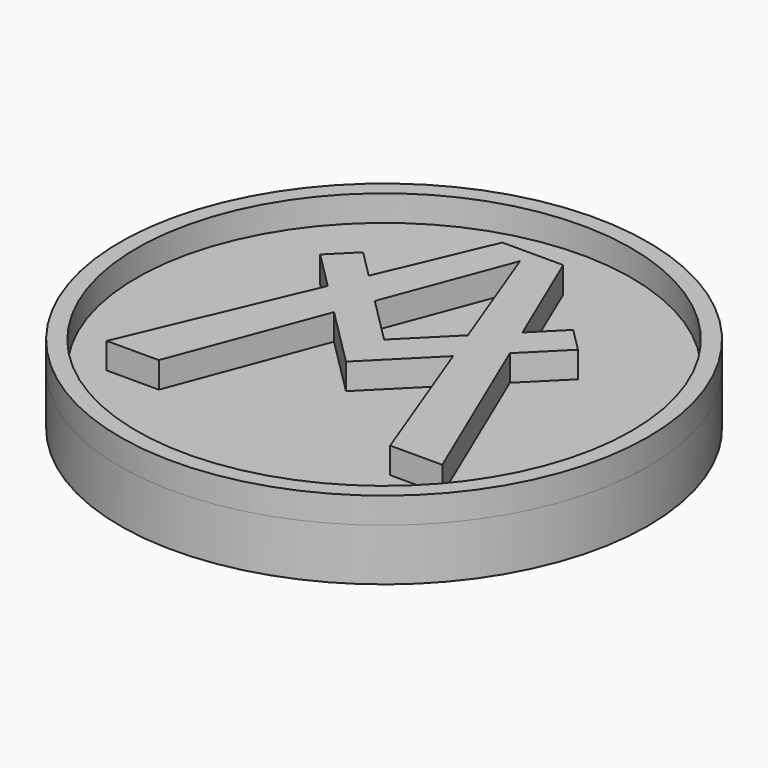
from build123d import *

# Parameters (mm, degrees)
F0_R     = 10.135287
F1_DEPTH = 2
F3_DEPTH = 1
F4_R     = 10.135287
F4_R_2   = 9.5
F5_DEPTH = 1


with BuildPart() as f1:
    # F0 (on Top) → F1 (new body)
    with BuildSketch(Plane.XY):
        Circle(F0_R)
    extrude(amount=-F1_DEPTH)

    # F2 (on face) → F3 (join)
    with BuildSketch(Plane.XY):
        Polygon((6.441801, -5.260301), (3.496772, 1.665972), (2.287066, 0.456266), (4.44094, -5.260301), align=None)
        Polygon((0, 6.526335), (1.786038, 1.786038), (2.950567, 2.950567), (1.171237, 7.135287), (-1.171237, 7.135287), (-2.950567, 2.950567), (-1.786038, 1.786038), align=None)
        Polygon((-2.287066, 0.456266), (-3.496772, 1.665972), (-6.441801, -5.260301), (-4.44094, -5.260301), align=None)
        Polygon((1.786038, 1.786038), (0, 0), (-1.786038, 1.786038), (-2.950567, 2.950567), (-4.034347, 4.034347), (-4.949747, 3.118947), (-3.496772, 1.665972), (-2.287066, 0.456266), (0, -1.8308), (2.287066, 0.456266), (3.496772, 1.665972), (4.949747, 3.118947), (4.034347, 4.034347), (2.950567, 2.950567), align=None)
    extrude(amount=F3_DEPTH)

    # F4 (on face) → F5 (join)
    with BuildSketch(Plane.XY):
        Circle(F4_R)
        Circle(F4_R_2, mode=Mode.SUBTRACT)
    extrude(amount=F5_DEPTH)


solid = f1.part
